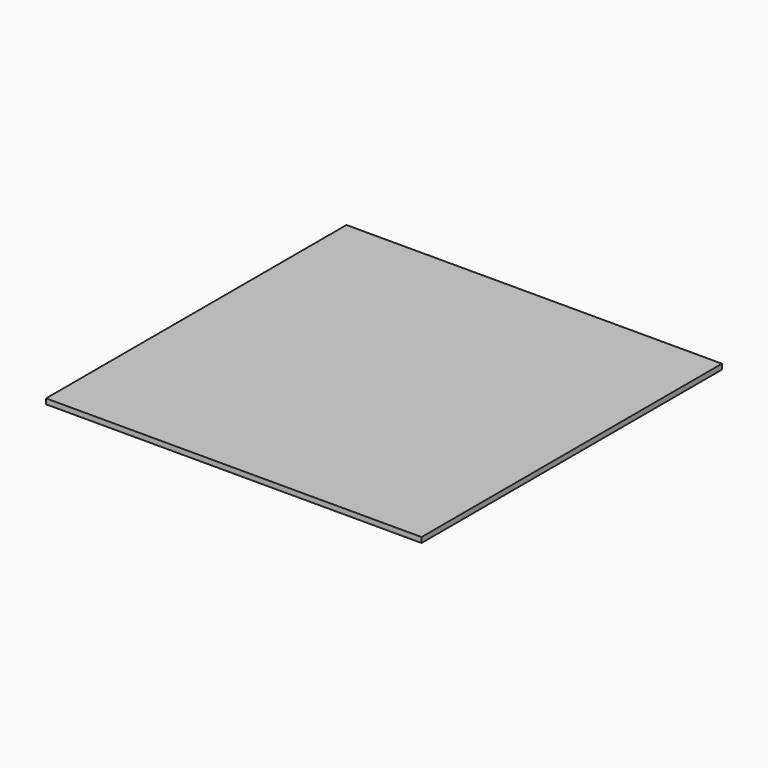
from build123d import *

# Parameters (mm, degrees)
SKETCH_W  = 20
SKETCH_H  = 20
PAD_DEPTH = 0.28


with BuildPart() as part:
    # Sketch → Pad (new body)
    with BuildSketch(Plane.XY):
        Rectangle(SKETCH_W, SKETCH_H)
    extrude(amount=PAD_DEPTH)


solid = part.part
